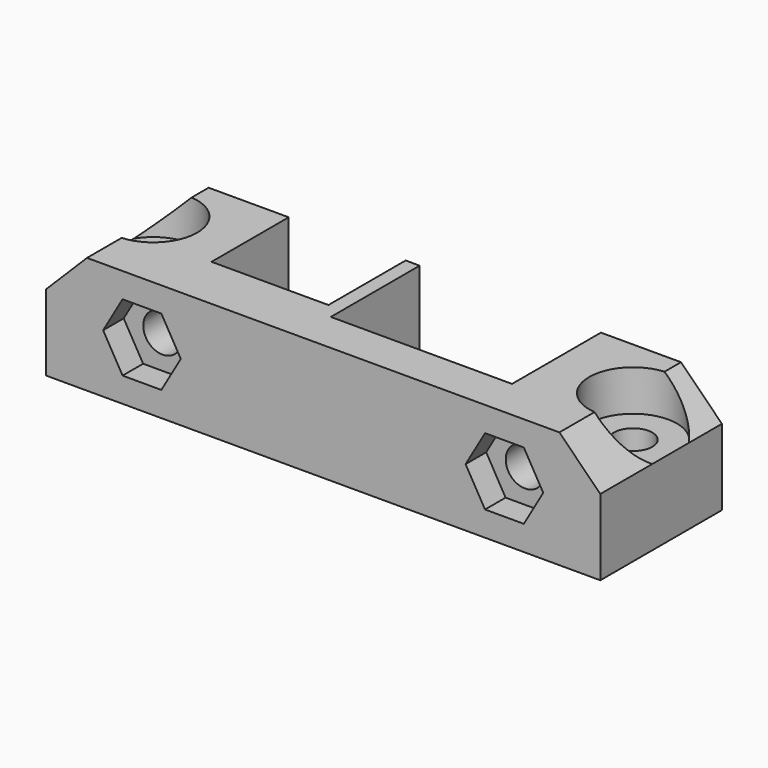
from build123d import *

# Parameters (mm, degrees)
SKETCH_W             = 47.4
SKETCH_H             = 13
SKETCH_R             = 1.65
PAD_DEPTH            = 10
SKETCH001_R          = 3.75
POCKET_DEPTH         = 3.5
SKETCH002_W          = 15.5
SKETCH002_H          = 10
POCKET001_DEPTH      = 100
POCKET001_DEPTH_BACK = -4
SKETCH003_R          = 1.65
POCKET002_DEPTH      = 5.501
POCKET002_DEPTH_BACK = -7.501
POCKET003_DEPTH      = 5.501
POCKET003_DEPTH_BACK = -7.501
POCKET004_DEPTH      = 2.201
SKETCH006_W          = 10
SKETCH006_H          = 10
POCKET005_DEPTH      = 100
POCKET005_DEPTH_BACK = -2.75


with BuildPart() as part:
    # Sketch → Pad (new body)
    with BuildSketch(Plane.XY):
        with Locations((0, -1)):
            Rectangle(SKETCH_W, SKETCH_H)
        with Locations((-20.5, 0)):
            Circle(SKETCH_R, mode=Mode.SUBTRACT)
        with Locations((20.5, 0)):
            Circle(SKETCH_R, mode=Mode.SUBTRACT)
    extrude(amount=-PAD_DEPTH)

    # Sketch001 → Pocket (cut)
    with BuildSketch(Plane.XY):
        with Locations((-20.481411, -0.058129)):
            Circle(SKETCH001_R)
        with Locations((20.5, 0)):
            Circle(SKETCH001_R)
    extrude(amount=-POCKET_DEPTH, mode=Mode.SUBTRACT)

    # Sketch002 → Pocket001 (cut, two sides)
    with BuildSketch(Plane.XZ) as pocket001_sk:
        with Locations((5.6, -5)):
            Rectangle(SKETCH002_W, SKETCH002_H)
    extrude(amount=-POCKET001_DEPTH, mode=Mode.SUBTRACT)
    extrude(pocket001_sk.sketch, amount=-POCKET001_DEPTH_BACK, mode=Mode.SUBTRACT)

    # Sketch003 → Pocket002 (cut, two sides)
    with BuildSketch(Plane.XZ) as pocket002_sk:
        with Locations((-15.5, -5)):
            Circle(SKETCH003_R)
        with Locations((15.5, -5)):
            Circle(SKETCH003_R)
    extrude(amount=-POCKET002_DEPTH, mode=Mode.SUBTRACT)
    extrude(pocket002_sk.sketch, amount=-POCKET002_DEPTH_BACK, mode=Mode.SUBTRACT)

    # Sketch004 → Pocket003 (cut, two sides)
    with BuildSketch(Plane.XZ) as pocket003_sk:
        Polygon((-20.2, 0), (-23.7, -3.5), (-23.7, 0), align=None)
        Polygon((20.2, 0), (23.7, 0), (23.7, -3.5), align=None)
    extrude(amount=-POCKET003_DEPTH, mode=Mode.SUBTRACT)
    extrude(pocket003_sk.sketch, amount=-POCKET003_DEPTH_BACK, mode=Mode.SUBTRACT)

    # Sketch005 (on DatumPlane) → Pocket004 (cut, through all)
    with BuildSketch(Plane.XZ.offset(5.3)):
        Polygon((-13.840118, -7.875), (-12.180236, -5), (-13.840118, -2.125), (-17.159882, -2.125), (-18.819764, -5), (-17.159882, -7.875), align=None)
        Polygon((17.159882, -7.875), (18.819764, -5), (17.159882, -2.125), (13.840118, -2.125), (12.180236, -5), (13.840118, -7.875), align=None)
    extrude(amount=POCKET004_DEPTH, mode=Mode.SUBTRACT)

    # Sketch006 → Pocket005 (cut, two sides)
    with BuildSketch(Plane.XZ) as pocket005_sk:
        with Locations((-8.35, -5)):
            Rectangle(SKETCH006_W, SKETCH006_H)
    extrude(amount=-POCKET005_DEPTH, mode=Mode.SUBTRACT)
    extrude(pocket005_sk.sketch, amount=-POCKET005_DEPTH_BACK, mode=Mode.SUBTRACT)


solid = part.part
